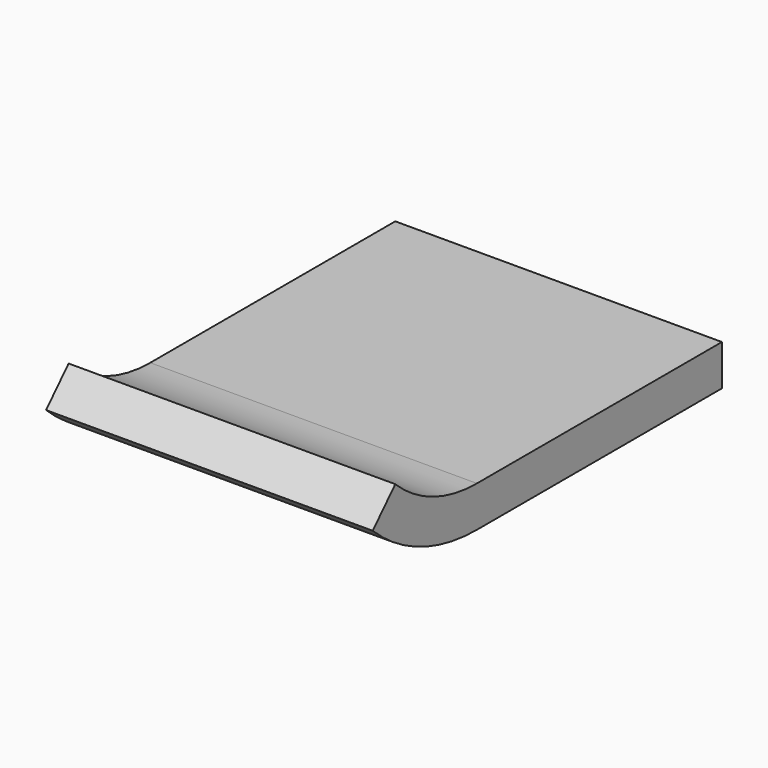
from build123d import *

# Parameters (mm, degrees)
F1_DEPTH = 80


with BuildPart() as f1:
    # F0 (on Right) → F1 (new body)
    with BuildSketch(Plane.YZ):
        with BuildLine():
            Line((-25, -5), (50, -5))
            Line((50, -5), (50, 5))
            Line((50, 5), (-25, 5))
            ThreePointArc((-25, 5), (-38.462912, 7.59272), (-50, 15))
            Line((-50, 15), (-56.896552, 7.758621))
            ThreePointArc((-56.896552, 7.758621), (-42.176819, -1.692047), (-25, -5))
        make_face()
    extrude(amount=-F1_DEPTH)


solid = f1.part
